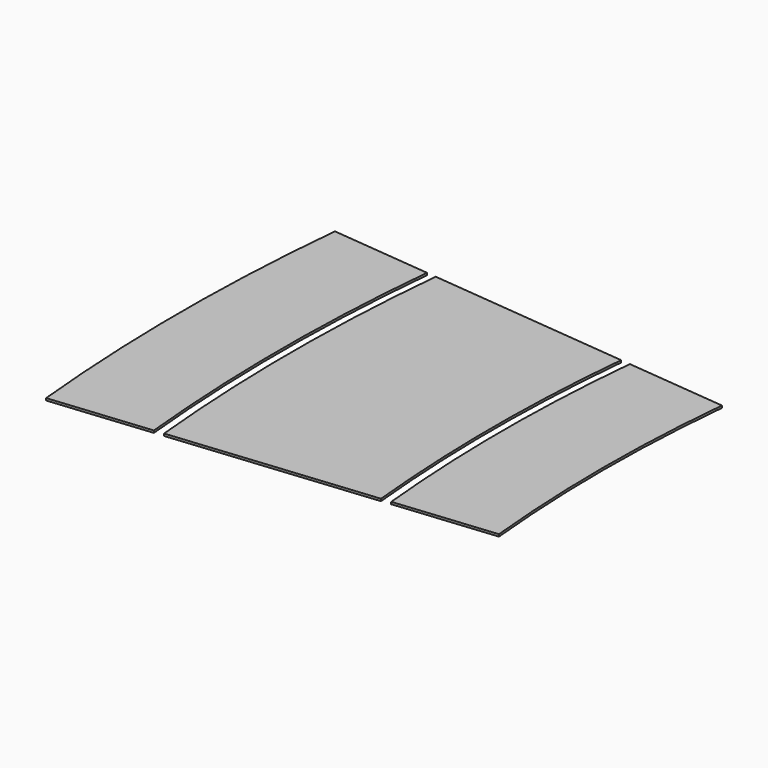
from build123d import *

# Parameters (mm, degrees)
F0_W     = 37
F0_H     = 0.8
F0_W_2   = 74.5
F1_ANGLE = 11.2


with BuildPart() as f1:
    # F0 (on Front) → F1 (revolve, symmetric)
    with BuildSketch(Plane.XZ) as f1_sk:
        with Locations((18.75, -0.4)):
            Rectangle(F0_W, F0_H)
        with Locations((78, -0.4)):
            Rectangle(F0_W_2, F0_H)
        with Locations((137.25, -0.4)):
            Rectangle(F0_W, F0_H)
    revolve(axis=Axis((682, 0, 6.529438), (0, 0, -1)), revolution_arc=F1_ANGLE / 2)
    revolve(f1_sk.sketch, axis=Axis((682, 0, 6.529438), (0, 0, 1)), revolution_arc=F1_ANGLE / 2)


solid = f1.part
